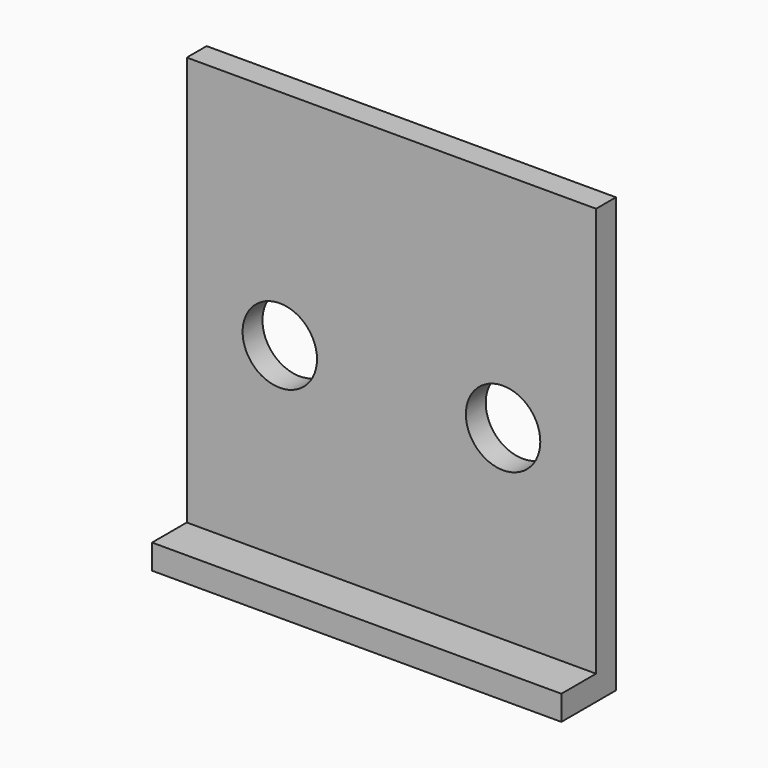
from build123d import *

# Parameters (mm, degrees)
F0_W     = 33
F0_H     = 5.5
F1_DEPTH = 2
F2_W     = 33
F2_H     = 2
F3_DEPTH = 33
F4_R     = 3
F5_DEPTH = 2.001


with BuildPart() as f1:
    # F0 (on Top) → F1 (new body)
    with BuildSketch(Plane.XY):
        Rectangle(F0_W, F0_H)
    extrude(amount=F1_DEPTH)

    # F2 (on face) → F3 (join)
    with BuildSketch(Plane.XY.offset(2)):
        with Locations((0, 1.75)):
            Rectangle(F2_W, F2_H)
    extrude(amount=F3_DEPTH)

    # F4 (on face) → F5 (cut, through all)
    with BuildSketch(Plane.XZ.offset(-0.75)):
        with Locations((-9, 17)):
            Circle(F4_R)
        with Locations((9, 17)):
            Circle(F4_R)
    extrude(amount=-F5_DEPTH, mode=Mode.SUBTRACT)


solid = f1.part
